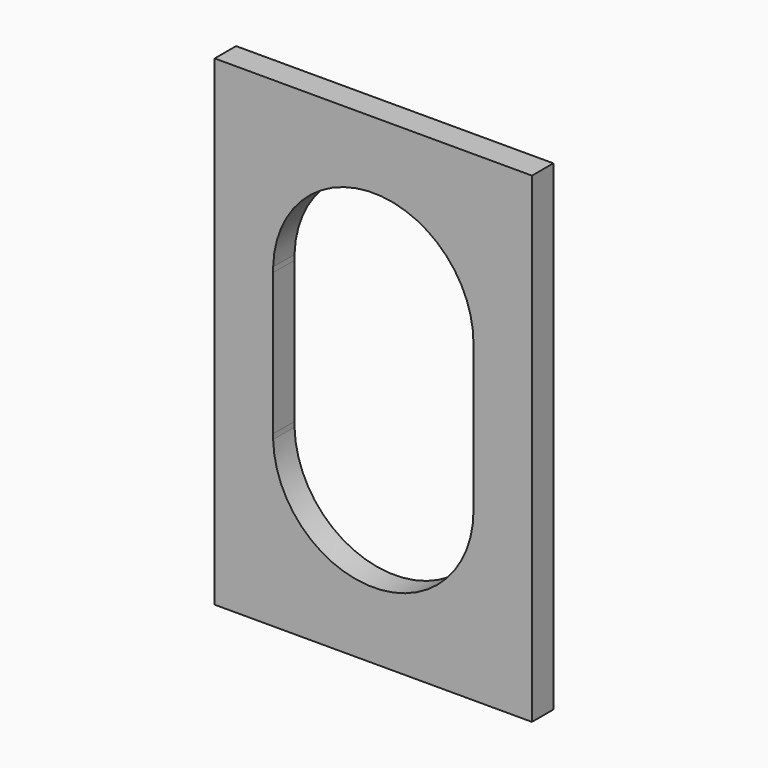
from build123d import *

# Parameters (mm, degrees)
F0_W     = 47.5
F0_H     = 72
F1_DEPTH = 4


with BuildPart() as f1:
    # F0 (on Front) → F1 (new body)
    with BuildSketch(Plane.XZ):
        Rectangle(F0_W, F0_H)
        with BuildLine():
            ThreePointArc((-14.995313, 11.374945), (0.187487, 25.998828), (15, 11))
            Line((15, 11), (15, -11))
            ThreePointArc((15, -11), (0.187487, -25.998828), (-14.995313, -11.374945))
            ThreePointArc((-14.995313, -11.374945), (-15, -11), (-14.995313, -10.625055))
            Line((-14.995313, -10.625055), (-14.995313, 10.625055))
            ThreePointArc((-14.995313, 10.625055), (-15, 11), (-14.995313, 11.374945))
        make_face(mode=Mode.SUBTRACT)
    extrude(amount=F1_DEPTH)


solid = f1.part
